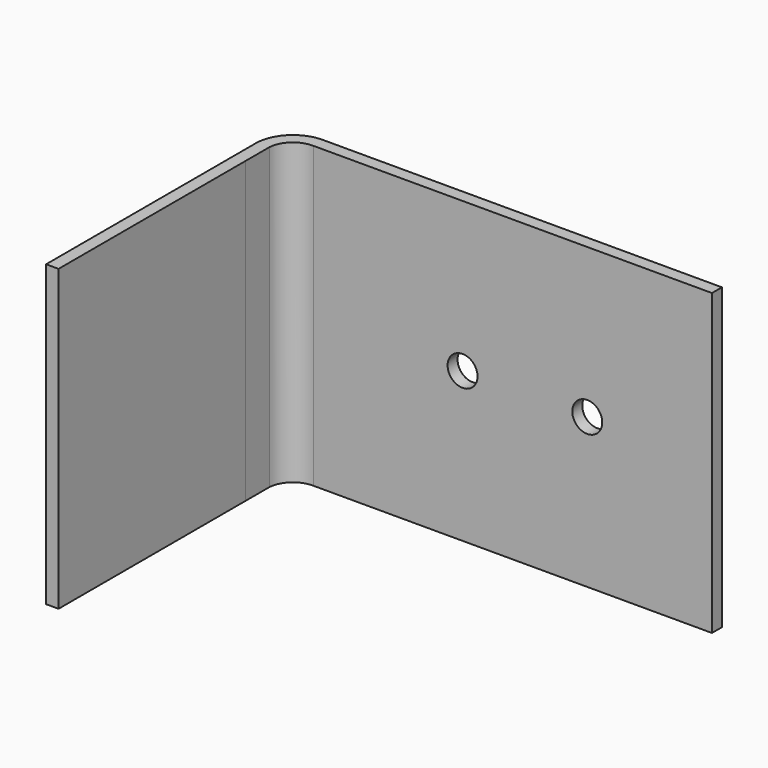
from build123d import *

# Parameters (mm, degrees)
F1_DEPTH = 120
F2_R     = 6
F3_DEPTH = 5
F4_R     = 6
F5_DEPTH = 5


with BuildPart() as f1:
    # F0 (on Top) → F1 (new body)
    with BuildSketch(Plane.XY):
        with BuildLine():
            Line((120.464271, 36.765282), (-39.183099, 36.765282))
            ThreePointArc((-39.183099, 36.765282), (-50.372007, 32.173501), (-54.535729, 20.818346))
            Line((-54.535729, 20.818346), (-54.535729, -83.234718))
            Line((-54.535729, -83.234718), (-49.535177, -83.234718))
            Line((-49.535177, -83.234718), (-49.536819, 10.563834))
            Line((-49.536819, 10.563834), (-49.537028, 22.530258))
            ThreePointArc((-49.537028, 22.530258), (-46.279821, 29.181243), (-39.340395, 31.767623))
            Line((-39.340395, 31.767623), (-28.383342, 31.767623))
            Line((-28.383342, 31.767623), (120.464271, 31.767623))
            Line((120.464271, 31.767623), (120.464271, 36.765282))
        make_face()
    extrude(amount=F1_DEPTH)

    # F2 (on face) → F3 (cut)
    with BuildSketch(Plane(origin=(0, 36.765282, 0), x_dir=(-1, 0, 0), z_dir=(0, 1, 0))):
        with Locations((-70.464271, 60)):
            Circle(F2_R)
        with Locations((-20.464271, 60)):
            Circle(F2_R)
    extrude(amount=-F3_DEPTH, mode=Mode.SUBTRACT)


with BuildPart() as f5:
    # F4 (on face) → F5 (new body)
    with BuildSketch(Plane(origin=(-49.536634, -0.000867, 0), x_dir=(-1.8e-05, 1, 0), z_dir=(1, 1.8e-05, 0))):
        with BuildLine():
            Line((-347.468874, 160.679807), (-7.468874, 160.679807))
            ThreePointArc((-7.468874, 160.679807), (13.744329, 169.466604), (22.531126, 190.679807))
            Line((22.531126, 190.679807), (22.531126, 380.679807))
            ThreePointArc((22.531126, 380.679807), (13.744329, 401.893011), (-7.468874, 410.679807))
            Line((-7.468874, 410.679807), (-97.468874, 410.679807))
            ThreePointArc((-97.468874, 410.679807), (-118.682078, 401.893011), (-127.468874, 380.679807))
            Line((-127.468874, 380.679807), (-127.468874, 280.679807))
            ThreePointArc((-127.468874, 280.679807), (-133.326739, 266.537672), (-147.468874, 260.679807))
            Line((-147.468874, 260.679807), (-357.468874, 260.679807))
            ThreePointArc((-357.468874, 260.679807), (-371.61101, 254.821943), (-377.468874, 240.679807))
            Line((-377.468874, 240.679807), (-377.468874, 190.679807))
            ThreePointArc((-377.468874, 190.679807), (-368.682078, 169.466604), (-347.468874, 160.679807))
        make_face()
        with Locations((-87.468874, 360.679807)):
            Circle(F4_R, mode=Mode.SUBTRACT)
        with Locations((-7.468874, 360.679807)):
            Circle(F4_R, mode=Mode.SUBTRACT)
    extrude(amount=F5_DEPTH)


solid = f1.part
